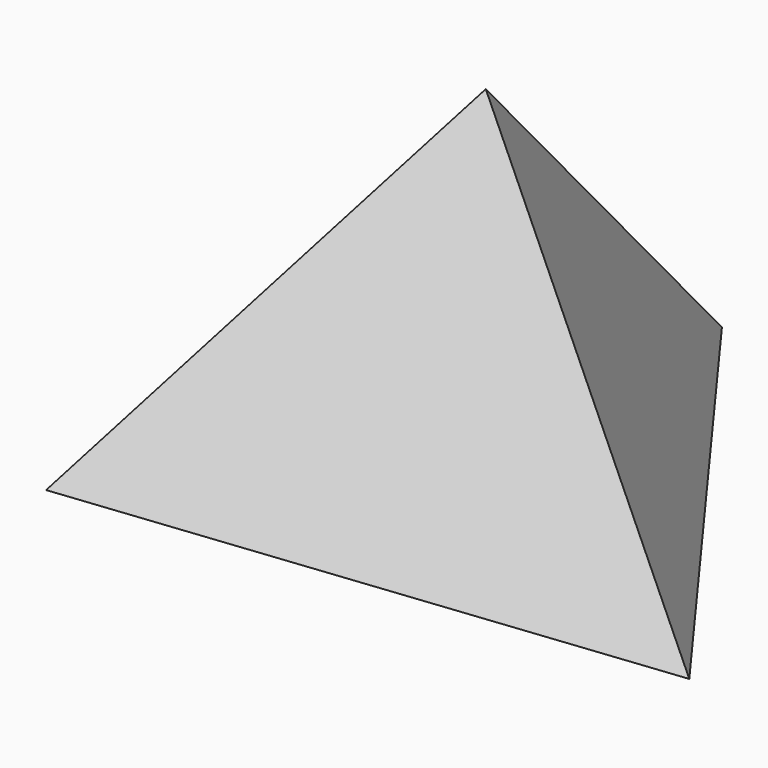
from build123d import *


with BuildPart() as f3:
    # F0 (on Top) → F3 section 0
    with BuildSketch(Plane.XY, mode=Mode.PRIVATE) as f3_s0:
        Polygon((-76.881953, -56.281123), (87.181859, -38.441163), (-10.299906, 94.722286), align=None)
    loft([f3_s0.sketch, Vertex(0, 0, 100)])


solid = f3.part
